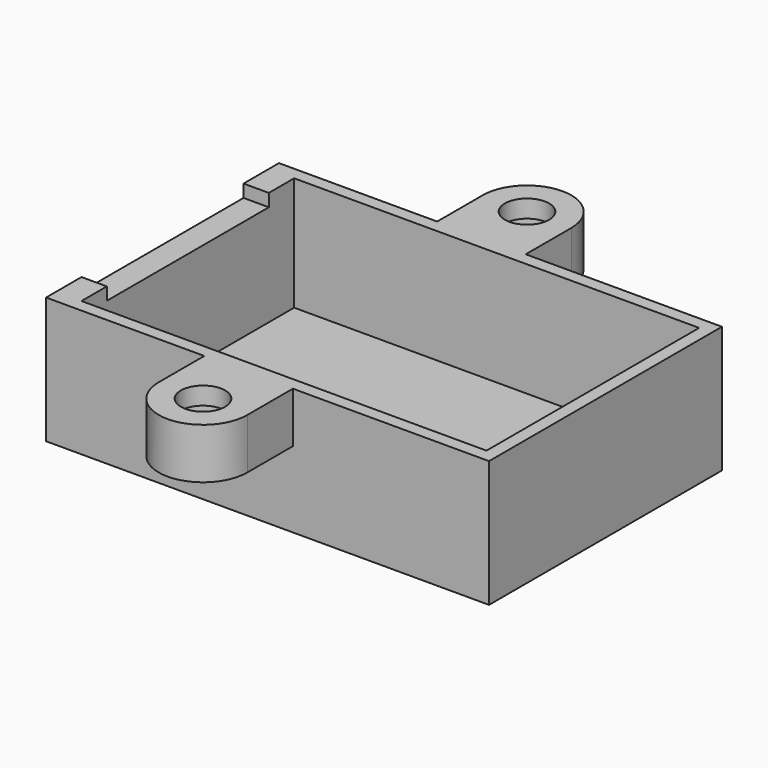
from build123d import *

# Parameters (mm, degrees)
SKETCH270_W         = 32
SKETCH270_H         = 21
PAD127_DEPTH        = 4
SKETCH271_W         = 35
SKETCH271_H         = 23
SKETCH271_W_2       = 32
SKETCH271_H_2       = 21
PAD128_DEPTH        = 10
SKETCH272_W         = 35
SKETCH272_H         = 23
PAD129_DEPTH        = 1
SKETCH273_W         = 16
SKETCH273_H         = 1
POCKET111_DEPTH     = 5
HOLE011_D           = 3.5
HOLE011_DEPTH       = 25
HOLE011_CBORE_D     = 5.5
HOLE011_CBORE_DEPTH = 2.6


with BuildPart() as part:
    # Sketch270 → Pad127 (new body)
    with BuildSketch(Plane(origin=(0, 0, -20), x_dir=(1, 0, 0), z_dir=(0, 0, -1))):
        with BuildLine():
            ThreePointArc((-18.5, 16), (-22, 19.5), (-25.5, 16))
            Line((-25.5, 11.5), (-25.5, 16))
            Line((-25.5, 11.5), (-38, 11.5))
            Line((-38, 11.5), (-38, -11.5))
            Line((-38, -11.5), (-25.5, -11.5))
            Line((-25.5, -11.5), (-25.5, -16))
            ThreePointArc((-25.5, -16), (-22, -19.5), (-18.5, -16))
            Line((-18.5, -11.5), (-18.5, -16))
            Line((-18.5, -11.5), (-3, -11.5))
            Line((-3, 11.5), (-3, -11.5))
            Line((-3, 11.5), (-18.5, 11.5))
            Line((-18.5, 11.5), (-18.5, 16))
        make_face()
        with Locations((-20, 0)):
            Rectangle(SKETCH270_W, SKETCH270_H, mode=Mode.SUBTRACT)
    extrude(amount=PAD127_DEPTH)

    # Sketch271 → Pad128 (join)
    with BuildSketch(Plane(origin=(0, 0, -20), x_dir=(1, 0, 0), z_dir=(0, 0, -1))):
        with Locations((-20.5, 0)):
            Rectangle(SKETCH271_W, SKETCH271_H)
        with Locations((-20, 0)):
            Rectangle(SKETCH271_W_2, SKETCH271_H_2, mode=Mode.SUBTRACT)
    extrude(amount=PAD128_DEPTH)

    # Sketch272 (on Face20 of Pad128) → Pad129 (join)
    with BuildSketch(Plane(origin=(0, 0, -30), x_dir=(1, 0, 0), z_dir=(0, 0, -1))):
        with Locations((-20.5, 0)):
            Rectangle(SKETCH272_W, SKETCH272_H)
    extrude(amount=-PAD129_DEPTH)

    # Sketch273 (on Face12 of Pad129) → Pocket111 (cut)
    with BuildSketch(Plane(origin=(-38, 0, -20), x_dir=(0, 1, 0), z_dir=(-1, 0, 0))):
        with Locations((0, 0.5)):
            Rectangle(SKETCH273_W, SKETCH273_H)
    extrude(amount=-POCKET111_DEPTH, mode=Mode.SUBTRACT)

    # Hole011
    with Locations(Plane(origin=(0, 0, -24), x_dir=(1, 0, 0), z_dir=(0, 0, -1))):
        with Locations((-22, 16), (-22, -16)):
            CounterBoreHole(HOLE011_D / 2, HOLE011_CBORE_D / 2, HOLE011_CBORE_DEPTH, depth=HOLE011_DEPTH)


with BuildPart() as part_1:
    # Body029 placement: moved
    add(part.part.moved(Location((-209, 0, -23))))


solid = part_1.part
